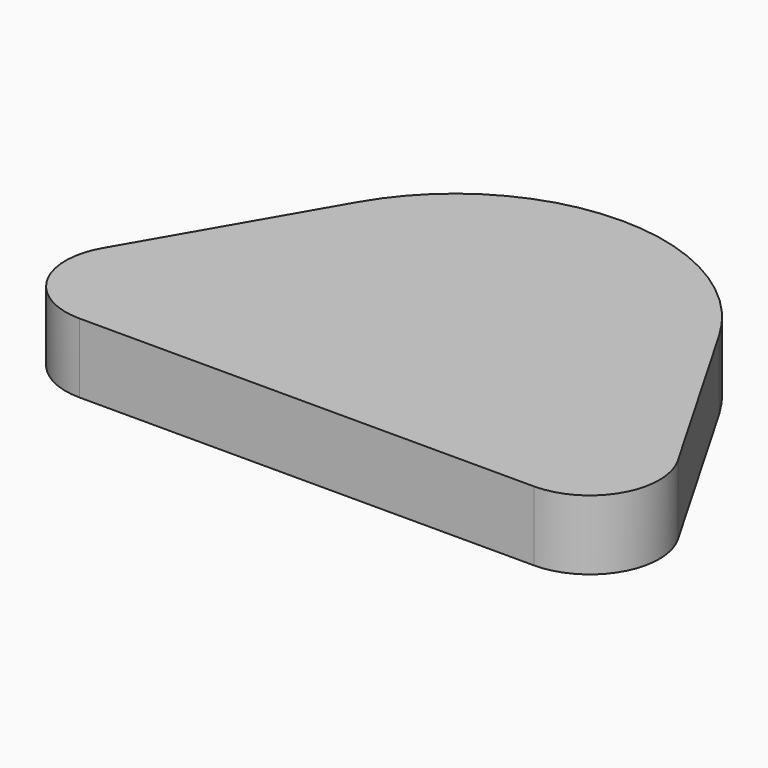
from build123d import *

# Parameters (mm, degrees)
F1_DEPTH = 5
F2_R     = 5
F3_R     = 15


with BuildPart() as f1:
    # F0 (on Top) → F1 (new body)
    with BuildSketch(Plane.XY):
        Polygon((12.419975, -35.958487), (62.419975, -35.958487), (37.419975, 7.342783), align=None)
    extrude(amount=F1_DEPTH)

    # F2
    f2_edges = [f1.edges().sort_by_distance(p)[0] for p in [
        (62.419975, -35.958487, 2.5),
        (12.419975, -35.958487, 2.5),
    ]]
    fillet(f2_edges, radius=F2_R)

    # F3
    f3_edges = [f1.edges().sort_by_distance(p)[0] for p in [
        (37.419975, 7.342783, 2.5),
    ]]
    fillet(f3_edges, radius=F3_R)


solid = f1.part
